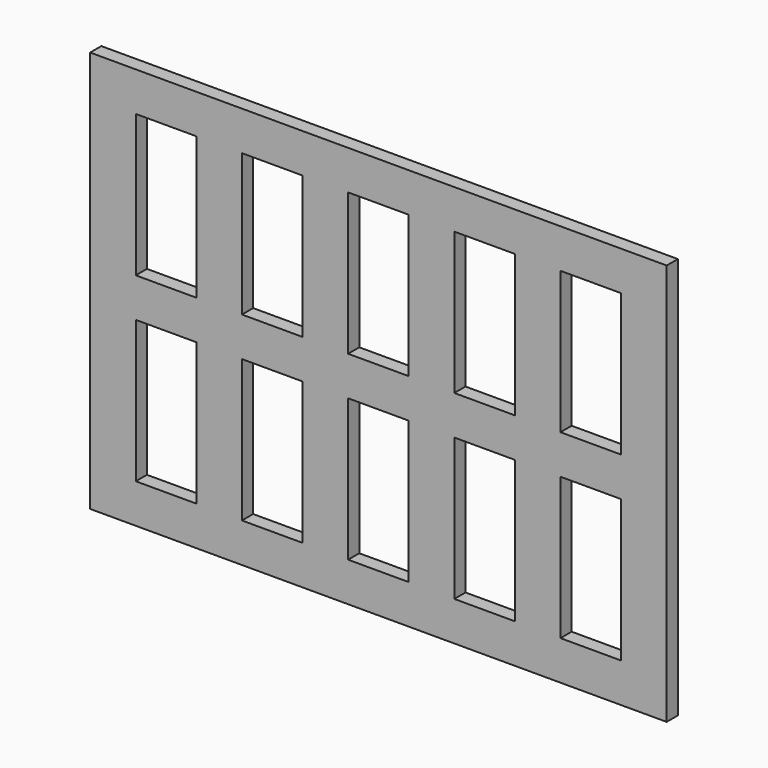
from build123d import *

# Parameters (mm, degrees)
F0_W     = 247.5
F0_H     = 172.5
F0_W_2   = 26
F0_H_2   = 61
F1_DEPTH = 6


with BuildPart() as f1:
    # F0 (on Front) → F1 (new body)
    with BuildSketch(Plane.XZ):
        Rectangle(F0_W, F0_H)
        with Locations((-91.167, -38.91)):
            Rectangle(F0_W_2, F0_H_2, mode=Mode.SUBTRACT)
        with Locations((-45.584, -38.91)):
            Rectangle(F0_W_2, F0_H_2, mode=Mode.SUBTRACT)
        with Locations((-0.001, -38.91)):
            Rectangle(F0_W_2, F0_H_2, mode=Mode.SUBTRACT)
        with Locations((45.582, -38.91)):
            Rectangle(F0_W_2, F0_H_2, mode=Mode.SUBTRACT)
        with Locations((91.165, -38.91)):
            Rectangle(F0_W_2, F0_H_2, mode=Mode.SUBTRACT)
        with Locations((-91.167, 38.92)):
            Rectangle(F0_W_2, F0_H_2, mode=Mode.SUBTRACT)
        with Locations((-45.584, 38.92)):
            Rectangle(F0_W_2, F0_H_2, mode=Mode.SUBTRACT)
        with Locations((-0.001, 38.92)):
            Rectangle(F0_W_2, F0_H_2, mode=Mode.SUBTRACT)
        with Locations((45.582, 38.92)):
            Rectangle(F0_W_2, F0_H_2, mode=Mode.SUBTRACT)
        with Locations((91.165, 38.92)):
            Rectangle(F0_W_2, F0_H_2, mode=Mode.SUBTRACT)
    extrude(amount=F1_DEPTH)


solid = f1.part
